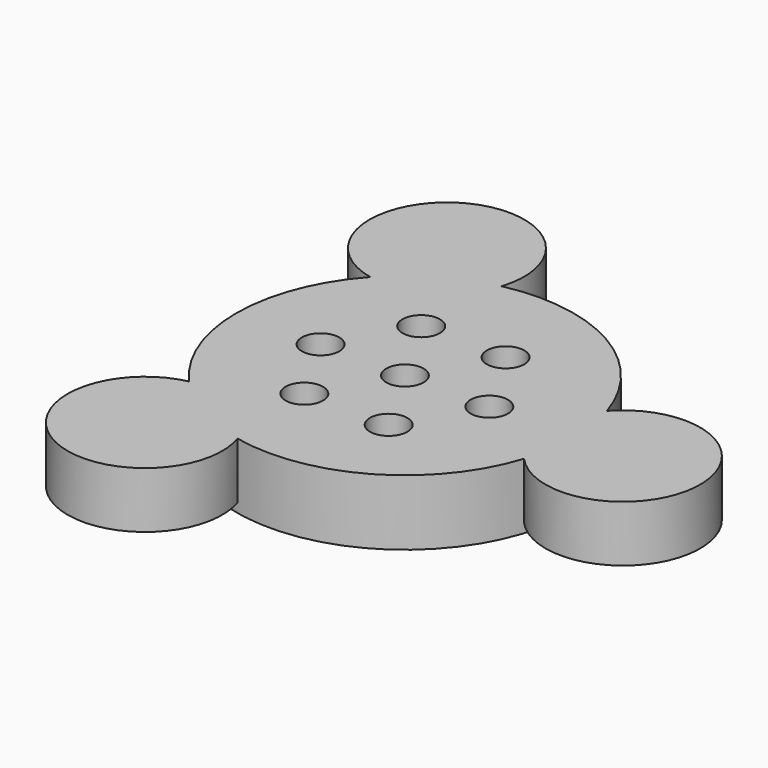
from build123d import *

# Parameters (mm, degrees)
CYLINDER008_R     = 2
CYLINDER008_DEPTH = 10
ARRAY002_COUNT    = 6
CYLINDER035_R     = 1
CYLINDER035_DEPTH = 10
CYLINDER009_R     = 2
CYLINDER009_DEPTH = 10
CYLINDER001_R     = 15
CYLINDER001_DEPTH = 4
CYLINDER_R        = 18
CYLINDER_DEPTH    = 7
CYLINDER002_R     = 5.25
CYLINDER002_DEPTH = 4
CYLINDER003_R     = 8.25
CYLINDER003_DEPTH = 6
ARRAY_COUNT       = 3


with BuildPart() as array002:
    # Cylinder008 → Cylinder008 (new body)
    with BuildSketch(Plane(origin=(9, 0, 0), x_dir=(1, 0, 0), z_dir=(0, 0, 1))):
        Circle(CYLINDER008_R)
    extrude(amount=CYLINDER008_DEPTH)

    # Array002: Array002 ×6 about axis
    array002_axis = Axis((0, 0, 0), (0, 0, 1))


with BuildPart() as array002_1:
    add(array002.part)
    for i in range(1, ARRAY002_COUNT):
        add(array002.part.rotate(array002_axis, i * 360 / ARRAY002_COUNT))


with BuildPart() as cylinder010:
    # Cylinder035 → Cylinder035 (new body)
    with BuildSketch(Plane(origin=(-13, 0, 3), x_dir=(0, 0, 1), z_dir=(-1, 0, 0))):
        Circle(CYLINDER035_R)
    extrude(amount=CYLINDER035_DEPTH)


with BuildPart() as fusion027:
    # Cylinder009 → Cylinder009 (new body)
    with BuildSketch(Plane.XY):
        Circle(CYLINDER009_R)
    extrude(amount=CYLINDER009_DEPTH)

    # Fusion027: union Array002, Cylinder010
    add(array002_1.part)
    add(cylinder010.part)


with BuildPart() as cylinder001:
    # Cylinder001 → Cylinder001 (new body)
    with BuildSketch(Plane.XY):
        Circle(CYLINDER001_R)
    extrude(amount=CYLINDER001_DEPTH)


with BuildPart() as cut:
    # Cylinder → Cylinder (new body)
    with BuildSketch(Plane.XY):
        Circle(CYLINDER_R)
    extrude(amount=CYLINDER_DEPTH)

    # Cut: cut Cylinder001
    add(cylinder001.part, mode=Mode.SUBTRACT)


with BuildPart() as cylinder002:
    # Cylinder002 → Cylinder002 (new body)
    with BuildSketch(Plane.XY):
        Circle(CYLINDER002_R)
    extrude(amount=CYLINDER002_DEPTH)


with BuildPart() as toplevelpart_materialtestholder:
    # Cylinder003 → Cylinder003 (new body)
    with BuildSketch(Plane.XY):
        Circle(CYLINDER003_R)
    extrude(amount=CYLINDER003_DEPTH)

    # Cut001: cut Cylinder002
    add(cylinder002.part, mode=Mode.SUBTRACT)


with BuildPart() as toplevelpart_materialtestholder_1:
    # Cut001 placement: moved
    add(toplevelpart_materialtestholder.part.moved(Location((23.25, 0, 1))))

    # Array: TopLevelPart-MaterialTestHolder ×3 about axis
    array_axis = Axis((0, 0, 0), (0, 0, 1))


with BuildPart() as toplevelpart_materialtestholder_2:
    add(toplevelpart_materialtestholder_1.part)
    for i in range(1, ARRAY_COUNT):
        add(toplevelpart_materialtestholder_1.part.rotate(array_axis, i * 360 / ARRAY_COUNT))

    # Fusion: union Cut
    add(cut.part)

    # Cut006: cut Fusion027
    add(fusion027.part, mode=Mode.SUBTRACT)


solid = toplevelpart_materialtestholder_2.part
